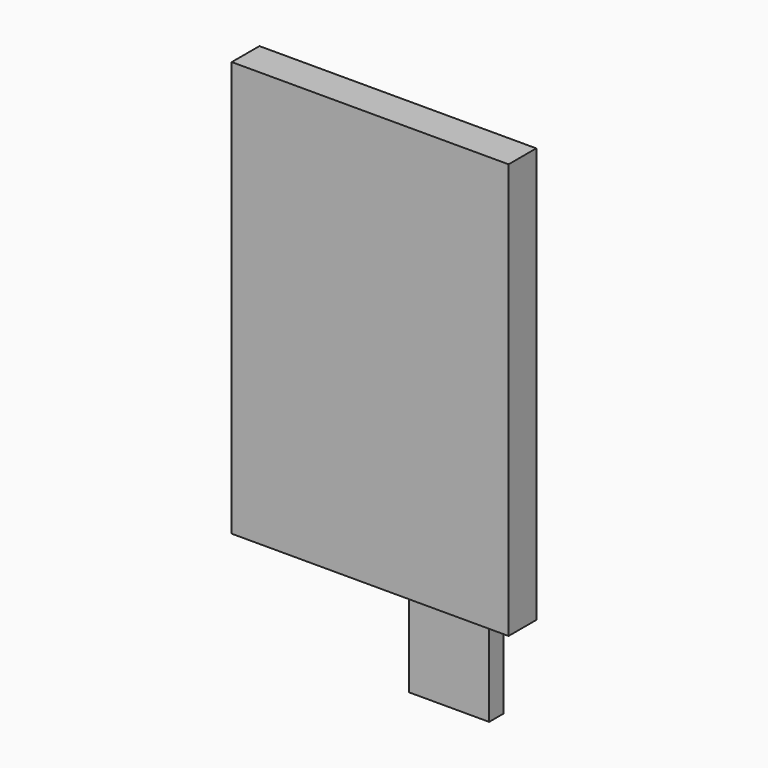
from build123d import *

# Parameters (mm, degrees)
F0_W     = 80
F0_H     = 120
F1_DEPTH = 5
F2_T     = -1
F3_W     = 23.1627868488
F3_H     = 5.2490865346
F4_DEPTH = 25


with BuildPart() as f1:
    # F0 (on Front) → F1 (new body, symmetric)
    with BuildSketch(Plane.XZ):
        Rectangle(F0_W, F0_H)
    extrude(amount=F1_DEPTH, both=True)

    # F2 (hollow: no face is removed)
    offset(amount=F2_T, mode=Mode.SUBTRACT)

    # F3 (on face) → F4 (join)
    with BuildSketch(Plane(origin=(0, 0, -60), x_dir=(1, 0, 0), z_dir=(0, 0, -1))):
        with Locations((21.2281174026, 0.4071515286)):
            Rectangle(F3_W, F3_H)
    extrude(amount=F4_DEPTH)


solid = f1.part
